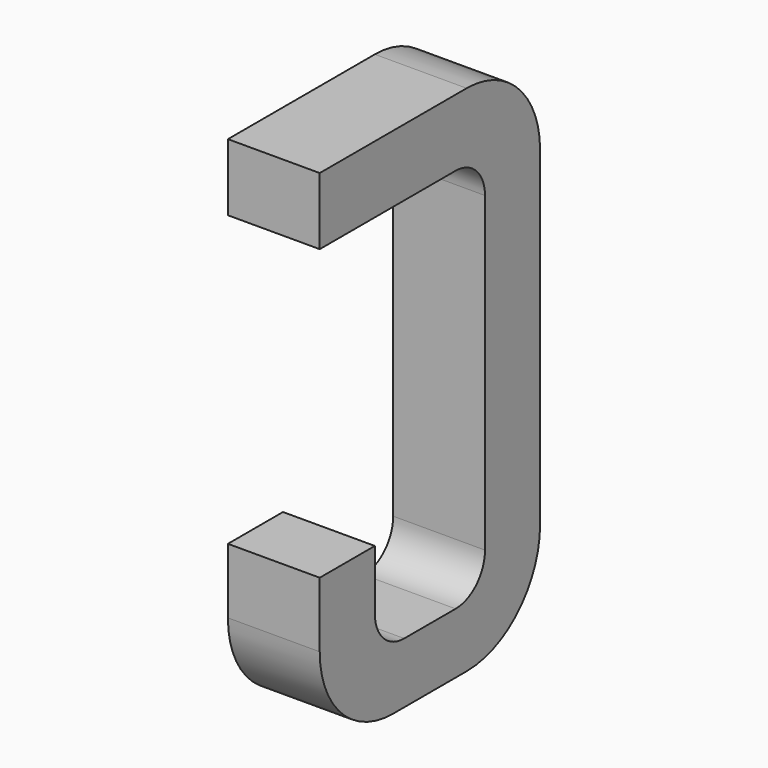
from build123d import *

# Parameters (mm, degrees)
BOX155_W     = 0.5
BOX155_H     = 1.5
BOX155_DEPTH = 2.795
FILLET430_R  = 0.5
FILLET417_R  = 0.5
FILLET413_R  = 0.5
BOX163_W     = 0.75
BOX163_H     = 2.1
BOX163_DEPTH = 1
FILLET427_R  = 0.2
FILLET425_R  = 0.2
FILLET422_R  = 0.2
FILLET416_R  = 0.2
BOX161_W     = 1
BOX161_H     = 1.575
BOX161_DEPTH = 3


with BuildPart() as part:
    # Box155 → Box155 (join)
    with BuildSketch(Plane(origin=(-0.25, 11.125, 0), x_dir=(1, 0, 0), z_dir=(0, 0, 1))):
        with Locations((0.25, 0.75)):
            Rectangle(BOX155_W, BOX155_H)
    extrude(amount=BOX155_DEPTH)

    # Fillet430
    fillet430_edges = [part.edges().sort_by_distance(p)[0] for p in [
        (0, 12.625, 0),
    ]]
    fillet(fillet430_edges, radius=FILLET430_R)

    # Fillet417
    fillet417_edges = [part.edges().sort_by_distance(p)[0] for p in [
        (0, 12.625, 2.795),
    ]]
    fillet(fillet417_edges, radius=FILLET417_R)

    # Fillet413
    fillet413_edges = [part.edges().sort_by_distance(p)[0] for p in [
        (0, 11.125, 0),
    ]]
    fillet(fillet413_edges, radius=FILLET413_R)

    # Box163 → Box163 (cut)
    with BuildSketch(Plane(origin=(-0.5, 11.5, 0.33), x_dir=(0, 1, 0), z_dir=(1, 0, 0))):
        with Locations((0.375, 1.05)):
            Rectangle(BOX163_W, BOX163_H)
    extrude(amount=BOX163_DEPTH, mode=Mode.SUBTRACT)

    # Fillet427
    fillet427_edges = [part.edges().sort_by_distance(p)[0] for p in [
        (0, 11.5, 0.33),
    ]]
    fillet(fillet427_edges, radius=FILLET427_R)

    # Fillet425
    fillet425_edges = [part.edges().sort_by_distance(p)[0] for p in [
        (0, 12.25, 0.33),
    ]]
    fillet(fillet425_edges, radius=FILLET425_R)

    # Fillet422
    fillet422_edges = [part.edges().sort_by_distance(p)[0] for p in [
        (0, 11.5, 2.43),
    ]]
    fillet(fillet422_edges, radius=FILLET422_R)

    # Fillet416
    fillet416_edges = [part.edges().sort_by_distance(p)[0] for p in [
        (0, 12.25, 2.43),
    ]]
    fillet(fillet416_edges, radius=FILLET416_R)

    # Box161 → Box161 (cut)
    with BuildSketch(Plane(origin=(-1, 11, 0.855), x_dir=(0, 1, 0), z_dir=(1, 0, 0))):
        with Locations((0.5, 0.7875)):
            Rectangle(BOX161_W, BOX161_H)
    extrude(amount=BOX161_DEPTH, mode=Mode.SUBTRACT)


with BuildPart() as part_1:
    # Body058 placement: moved
    add(part.part.moved(Location((2.54, 0, 0))))


solid = part_1.part
